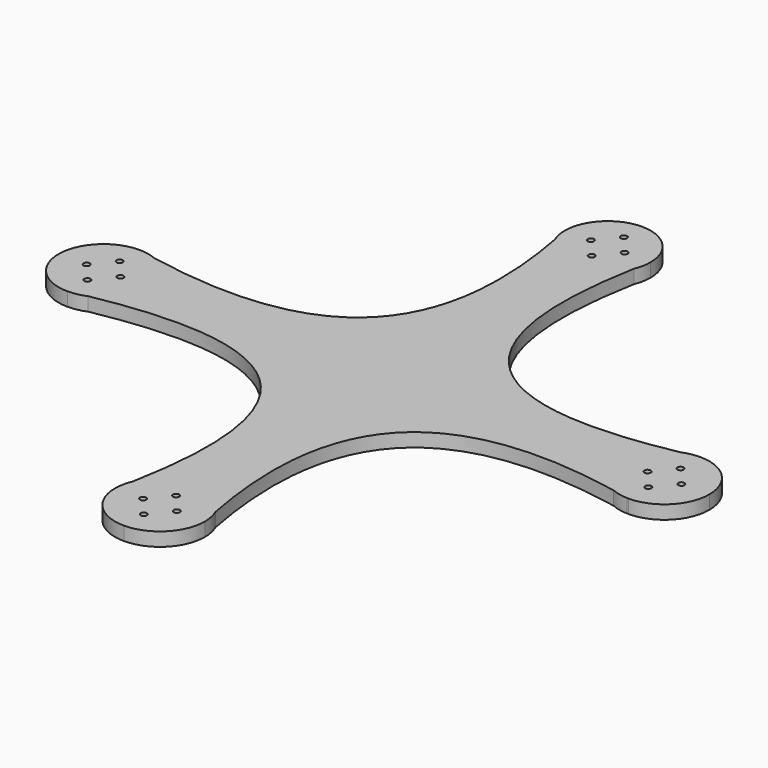
from build123d import *

# Parameters (mm, degrees)
F1_DEPTH = 6.35


with BuildPart() as f1:
    # F0 (on Top) → F1 (new body)
    with BuildSketch(Plane.XY):
        with BuildLine():
            ThreePointArc((120.79341101, 0), (122.24121101, 1.4478), (123.68901101, 0))
            Line((123.68901101, 0), (130.11521101, 0))
            Line((130.11521101, 0), (130.11521101, 7.9502))
            ThreePointArc((130.11521101, 7.9502), (128.66741101, 9.398), (130.11521101, 10.8458))
            Line((130.11521101, 10.8458), (130.11521101, 20.955))
            Line((130.11521101, 20.955), (129.4094382775, 20.9431112744))
            add(Edge.make_bspline(
                [(122.2815481936, 19.4356824393), (124.619083935, 19.9003764029), (126.9950360223, 20.4028595696), (129.4094382775, 20.9431112744)],
                knots=[150.2138018938, 150.2138018938, 150.2138018938, 150.2138018938, 154.1913454475, 154.1913454475, 154.1913454475, 154.1913454475], degree=3))
            ThreePointArc((122.2815481936, 19.4356824393), (112.7476200815, 11.7251358347), (109.16021101, 0))
            Line((109.16021101, 0), (120.79341101, 0))
        make_face()
        with BuildLine():
            Line((130.11521101, 0), (123.68901101, 0))
            ThreePointArc((123.68901101, 0), (122.24121101, -1.4478), (120.79341101, 0))
            Line((120.79341101, 0), (109.16021101, 0))
            ThreePointArc((109.16021101, 0), (112.5911882011, -11.4900239162), (121.7606070581, -19.2175081061))
            add(Edge.make_bspline(
                [(130.11521101, -20.955), (127.2773928384, -20.3243985565), (124.4925404628, -19.7452069036), (121.7606070581, -19.2175081061)],
                knots=[0, 0, 0, 0, 4.67403415, 4.67403415, 4.67403415, 4.67403415], degree=3))
            Line((130.11521101, -20.955), (130.11521101, -10.8458))
            ThreePointArc((130.11521101, -10.8458), (128.66741101, -9.398), (130.11521101, -7.9502))
            Line((130.11521101, -7.9502), (130.11521101, 0))
        make_face()
        with BuildLine():
            Line((130.11521101, 7.9502), (130.11521101, 0))
            Line((130.11521101, 0), (136.54141101, 0))
            ThreePointArc((136.54141101, 0), (137.98921101, 1.4478), (139.43701101, 0))
            Line((139.43701101, 0), (151.07021101, 0))
            ThreePointArc((151.07021101, 0), (144.9326336097, 14.8174225998), (130.11521101, 20.955))
            Line((130.11521101, 20.955), (130.11521101, 10.8458))
            ThreePointArc((130.11521101, 10.8458), (131.1389602078, 10.4217491978), (131.56301101, 9.398))
            ThreePointArc((131.56301101, 9.398), (131.1389602078, 8.3742508022), (130.11521101, 7.9502))
        make_face()
        with BuildLine():
            Line((136.54141101, 0), (130.11521101, 0))
            Line((130.11521101, 0), (130.11521101, -7.9502))
            ThreePointArc((130.11521101, -7.9502), (131.1389602078, -8.3742508022), (131.56301101, -9.398))
            ThreePointArc((131.56301101, -9.398), (131.1389602078, -10.4217491978), (130.11521101, -10.8458))
            Line((130.11521101, -10.8458), (130.11521101, -20.955))
            ThreePointArc((130.11521101, -20.955), (144.9326336097, -14.8174225998), (151.07021101, 0))
            Line((151.07021101, 0), (139.43701101, 0))
            ThreePointArc((139.43701101, 0), (137.98921101, -1.4478), (136.54141101, 0))
        make_face()
        with BuildLine():
            ThreePointArc((121.7606070581, -19.2175081061), (112.5911882011, -11.4900239162), (109.16021101, 0))
            ThreePointArc((109.16021101, 0), (112.7476200815, 11.7251358347), (122.2815481936, 19.4356824393))
            add(Edge.make_bspline(
                [(18.4571573957, 121.8935747296), (2.4740359892, 36.2001880799), (36.5254994756, 2.3876786479), (122.2815481936, 19.4356824393)],
                knots=[4.2915758799, 4.2915758799, 4.2915758799, 4.2915758799, 150.2138018938, 150.2138018938, 150.2138018938, 150.2138018938], degree=3))
            ThreePointArc((18.4571573957, 121.8935747296), (11.0905351489, 112.9490771865), (0, 109.5918179271))
            ThreePointArc((0, 109.5918179271), (-11.0906209119, 112.9491343482), (-18.4572367199, 121.8937649891))
            add(Edge.make_bspline(
                [(-123.1824907543, 19.2572834524), (-36.3246371653, 2.6417946871), (-2.5353340794, 36.5209589531), (-18.4572367199, 121.8937649891)],
                knots=[4.5659910886, 4.5659910886, 4.5659910886, 4.5659910886, 151.3024434717, 151.3024434717, 151.3024434717, 151.3024434717], degree=3))
            ThreePointArc((-123.1824907543, 19.2572834524), (-113.9485302669, 11.5319370393), (-110.49, 0))
            ThreePointArc((-110.49, 0), (-113.94858346, -11.5320177445), (-123.1826684094, -19.2573596759))
            add(Edge.make_bspline(
                [(-19.2573596759, -123.1826684094), (-2.6698341407, -36.4641564975), (-36.4641564975, -2.6698341407), (-123.1826684094, -19.2573596759)],
                knots=[4.5841640255, 4.5841640255, 4.5841640255, 4.5841640255, 151.6722924811, 151.6722924811, 151.6722924811, 151.6722924811], degree=3))
            ThreePointArc((-19.2573596759, -123.1826684094), (-19.1477552143, -122.9317459069), (-19.0348814104, -122.6822769818))
            ThreePointArc((-19.0348814104, -122.6822769818), (-11.3024148781, -113.7993930985), (0, -110.49))
            ThreePointArc((0, -110.49), (11.531953589, -113.9485411748), (19.2572990832, -123.1825271848))
            add(Edge.make_bspline(
                [(121.7606070581, -19.2175081061), (36.373275849, -2.7241368086), (2.682076988, -36.5337366576), (19.2572990832, -123.1825271848)],
                knots=[4.67403415, 4.67403415, 4.67403415, 4.67403415, 150.7622591999, 150.7622591999, 150.7622591999, 150.7622591999], degree=3))
        make_face()
        with BuildLine():
            ThreePointArc((129.4094382775, 20.9431112744), (125.7794786271, 20.5015474953), (122.2815481936, 19.4356824393))
            add(Edge.make_bspline(
                [(122.2815481936, 19.4356824393), (124.619083935, 19.9003764029), (126.9950360223, 20.4028595696), (129.4094382775, 20.9431112744)],
                knots=[150.2138018938, 150.2138018938, 150.2138018938, 150.2138018938, 154.1913454475, 154.1913454475, 154.1913454475, 154.1913454475], degree=3))
        make_face()
        with BuildLine():
            add(Edge.make_bspline(
                [(130.11521101, -20.955), (127.2773928384, -20.3243985565), (124.4925404628, -19.7452069036), (121.7606070581, -19.2175081061)],
                knots=[0, 0, 0, 0, 4.67403415, 4.67403415, 4.67403415, 4.67403415], degree=3))
            ThreePointArc((121.7606070581, -19.2175081061), (125.5035916644, -20.4412571045), (129.4094382775, -20.9431112744))
            Line((129.4094382775, -20.9431112744), (130.11521101, -20.955))
        make_face()
        with BuildLine():
            ThreePointArc((130.11521101, 20.955), (129.762274581, 20.9520276078), (129.4094382775, 20.9431112744))
            Line((129.4094382775, 20.9431112744), (130.11521101, 20.955))
        make_face()
        with BuildLine():
            add(Edge.make_bspline(
                [(19.9971389232, 129.5889568502), (19.4405626846, 126.9789378392), (18.9272213482, 124.4138191177), (18.4571573957, 121.8935747296)],
                knots=[0, 0, 0, 0, 4.2915758799, 4.2915758799, 4.2915758799, 4.2915758799], degree=3))
            ThreePointArc((18.4571573957, 121.8935747296), (19.6083643591, 125.6649777127), (19.9971389232, 129.5889568502))
        make_face()
        with BuildLine():
            ThreePointArc((0, 109.5918179271), (11.0905351489, 112.9490771865), (18.4571573957, 121.8935747296))
            add(Edge.make_bspline(
                [(19.9971389232, 129.5889568502), (19.4405626846, 126.9789378392), (18.9272213482, 124.4138191177), (18.4571573957, 121.8935747296)],
                knots=[0, 0, 0, 0, 4.2915758799, 4.2915758799, 4.2915758799, 4.2915758799], degree=3))
            Line((19.9971389232, 129.5889568502), (9.3218, 129.5889568502))
            ThreePointArc((9.3218, 129.5889568502), (7.874, 128.1411568502), (6.4262, 129.5889568502))
            Line((6.4262, 129.5889568502), (0, 129.5889568502))
            Line((0, 129.5889568502), (0, 121.6387568502))
            ThreePointArc((0, 121.6387568502), (1.0237491978, 121.214706048), (1.4478, 120.1909568502))
            ThreePointArc((1.4478, 120.1909568502), (1.0237491978, 119.1672076524), (0, 118.7431568502))
            Line((0, 118.7431568502), (0, 109.5918179271))
        make_face()
        with BuildLine():
            Line((130.11521101, -20.955), (129.4094382775, -20.9431112744))
            ThreePointArc((129.4094382775, -20.9431112744), (129.762274581, -20.9520276078), (130.11521101, -20.955))
        make_face()
        with BuildLine():
            add(Edge.make_bspline(
                [(19.2572990832, -123.1825271848), (19.7743085213, -125.8852506988), (20.3402232894, -128.6393826482), (20.955, -131.445)],
                knots=[150.7622591999, 150.7622591999, 150.7622591999, 150.7622591999, 155.3190000217, 155.3190000217, 155.3190000217, 155.3190000217], degree=3))
            ThreePointArc((19.2572990832, -123.1825271848), (11.531953589, -113.9485411748), (0, -110.49))
            Line((0, -110.49), (0, -120.5992))
            ThreePointArc((0, -120.5992), (1.0237491978, -121.0232508022), (1.4478, -122.047))
            ThreePointArc((1.4478, -122.047), (1.0237491978, -123.0707491978), (0, -123.4948))
            Line((0, -123.4948), (0, -131.445))
            Line((0, -131.445), (6.4262, -131.445))
            ThreePointArc((6.4262, -131.445), (7.874, -129.9972), (9.3218, -131.445))
            Line((9.3218, -131.445), (20.955, -131.445))
        make_face()
        with BuildLine():
            ThreePointArc((20.9544356834, -131.2912138119), (20.5105729549, -127.1521661967), (19.2572990832, -123.1825271848))
            add(Edge.make_bspline(
                [(19.2572990832, -123.1825271848), (19.7743085213, -125.8852506988), (20.3402232894, -128.6393826482), (20.955, -131.445)],
                knots=[150.7622591999, 150.7622591999, 150.7622591999, 150.7622591999, 155.3190000217, 155.3190000217, 155.3190000217, 155.3190000217], degree=3))
            Line((20.955, -131.445), (20.9544356834, -131.2912138119))
        make_face()
        with BuildLine():
            ThreePointArc((-18.4572367199, 121.8937649891), (-11.0906209119, 112.9491343482), (0, 109.5918179271))
            Line((0, 109.5918179271), (0, 118.7431568502))
            ThreePointArc((0, 118.7431568502), (-1.4478, 120.1909568502), (0, 121.6387568502))
            Line((0, 121.6387568502), (0, 129.5889568502))
            Line((0, 129.5889568502), (-6.4262, 129.5889568502))
            ThreePointArc((-6.4262, 129.5889568502), (-7.874, 128.1411568502), (-9.3218, 129.5889568502))
            Line((-9.3218, 129.5889568502), (-19.9971389232, 129.5889568502))
            add(Edge.make_bspline(
                [(-18.4572367199, 121.8937649891), (-18.927247149, 124.4139480419), (-19.4405766715, 126.9790034296), (-19.9971389232, 129.5889568502)],
                knots=[151.3024434717, 151.3024434717, 151.3024434717, 151.3024434717, 155.6340654212, 155.6340654212, 155.6340654212, 155.6340654212], degree=3))
        make_face()
        with BuildLine():
            Line((9.3218, 129.5889568502), (19.9971389232, 129.5889568502))
            ThreePointArc((19.9971389232, 129.5889568502), (14.1401125369, 143.7290693871), (0, 149.5860957734))
            Line((0, 149.5860957734), (0, 140.4347568502))
            ThreePointArc((0, 140.4347568502), (1.0237491978, 140.010706048), (1.4478, 138.9869568502))
            ThreePointArc((1.4478, 138.9869568502), (1.0237491978, 137.9632076524), (0, 137.5391568502))
            Line((0, 137.5391568502), (0, 129.5889568502))
            Line((0, 129.5889568502), (6.4262, 129.5889568502))
            ThreePointArc((6.4262, 129.5889568502), (7.874, 131.0367568502), (9.3218, 129.5889568502))
        make_face()
        with BuildLine():
            ThreePointArc((20.955, -131.445), (20.9548589204, -131.3681063883), (20.9544356834, -131.2912138119))
            Line((20.9544356834, -131.2912138119), (20.955, -131.445))
        make_face()
        with BuildLine():
            Line((0, -120.5992), (0, -110.49))
            ThreePointArc((0, -110.49), (-11.3024148781, -113.7993930985), (-19.0348814104, -122.6822769818))
            Line((-19.0348814104, -122.6822769818), (-20.955, -131.445))
            Line((-20.955, -131.445), (-9.3218, -131.445))
            ThreePointArc((-9.3218, -131.445), (-7.874, -129.9972), (-6.4262, -131.445))
            Line((-6.4262, -131.445), (0, -131.445))
            Line((0, -131.445), (0, -123.4948))
            ThreePointArc((0, -123.4948), (-1.4478, -122.047), (0, -120.5992))
        make_face()
        with BuildLine():
            ThreePointArc((0, -152.4), (14.8174225998, -146.2624225998), (20.955, -131.445))
            Line((20.955, -131.445), (9.3218, -131.445))
            ThreePointArc((9.3218, -131.445), (7.874, -132.8928), (6.4262, -131.445))
            Line((6.4262, -131.445), (0, -131.445))
            Line((0, -131.445), (0, -139.3952))
            ThreePointArc((0, -139.3952), (1.0237491978, -139.8192508022), (1.4478, -140.843))
            ThreePointArc((1.4478, -140.843), (1.0237491978, -141.8667491978), (0, -142.2908))
            Line((0, -142.2908), (0, -152.4))
        make_face()
        with BuildLine():
            ThreePointArc((-19.9971389232, 129.5889568502), (-19.6083845833, 125.6650787757), (-18.4572367199, 121.8937649891))
            add(Edge.make_bspline(
                [(-18.4572367199, 121.8937649891), (-18.927247149, 124.4139480419), (-19.4405766715, 126.9790034296), (-19.9971389232, 129.5889568502)],
                knots=[151.3024434717, 151.3024434717, 151.3024434717, 151.3024434717, 155.6340654212, 155.6340654212, 155.6340654212, 155.6340654212], degree=3))
        make_face()
        with BuildLine():
            Line((0, 140.4347568502), (0, 149.5860957734))
            ThreePointArc((0, 149.5860957734), (-14.1401125369, 143.7290693871), (-19.9971389232, 129.5889568502))
            Line((-19.9971389232, 129.5889568502), (-9.3218, 129.5889568502))
            ThreePointArc((-9.3218, 129.5889568502), (-7.874, 131.0367568502), (-6.4262, 129.5889568502))
            Line((-6.4262, 129.5889568502), (0, 129.5889568502))
            Line((0, 129.5889568502), (0, 137.5391568502))
            ThreePointArc((0, 137.5391568502), (-1.4478, 138.9869568502), (0, 140.4347568502))
        make_face()
        with BuildLine():
            Line((-20.955, -131.445), (-19.0348814104, -122.6822769818))
            ThreePointArc((-19.0348814104, -122.6822769818), (-19.1477552143, -122.9317459069), (-19.2573596759, -123.1826684094))
            add(Edge.make_bspline(
                [(-20.955, -131.445), (-20.3402339974, -128.6394315152), (-19.774328235, -125.8853466393), (-19.2573596759, -123.1826684094)],
                knots=[0, 0, 0, 0, 4.5841640255, 4.5841640255, 4.5841640255, 4.5841640255], degree=3))
        make_face()
        with BuildLine():
            ThreePointArc((-20.955, -131.445), (-14.8174225998, -146.2624225998), (0, -152.4))
            Line((0, -152.4), (0, -142.2908))
            ThreePointArc((0, -142.2908), (-1.4478, -140.843), (0, -139.3952))
            Line((0, -139.3952), (0, -131.445))
            Line((0, -131.445), (-6.4262, -131.445))
            ThreePointArc((-6.4262, -131.445), (-7.874, -132.8928), (-9.3218, -131.445))
            Line((-9.3218, -131.445), (-20.955, -131.445))
        make_face()
        with BuildLine():
            add(Edge.make_bspline(
                [(-131.445, 20.955), (-128.6393784119, 20.3402223612), (-125.8852423816, 19.7743068123), (-123.1824907543, 19.2572834524)],
                knots=[0, 0, 0, 0, 4.5659910886, 4.5659910886, 4.5659910886, 4.5659910886], degree=3))
            ThreePointArc((-123.1824907543, 19.2572834524), (-127.2274384856, 20.5261832758), (-131.445, 20.955))
        make_face()
        with BuildLine():
            ThreePointArc((-110.49, 0), (-113.9485302669, 11.5319370393), (-123.1824907543, 19.2572834524))
            add(Edge.make_bspline(
                [(-131.445, 20.955), (-128.6393784119, 20.3402223612), (-125.8852423816, 19.7743068123), (-123.1824907543, 19.2572834524)],
                knots=[0, 0, 0, 0, 4.5659910886, 4.5659910886, 4.5659910886, 4.5659910886], degree=3))
            Line((-131.445, 20.955), (-131.445, 10.8458))
            ThreePointArc((-131.445, 10.8458), (-130.4212508022, 10.4217491978), (-129.9972, 9.398))
            ThreePointArc((-129.9972, 9.398), (-130.4212508022, 8.3742508022), (-131.445, 7.9502))
            Line((-131.445, 7.9502), (-131.445, 0))
            Line((-131.445, 0), (-125.0188, 0))
            ThreePointArc((-125.0188, 0), (-123.571, 1.4478), (-122.1232, 0))
            Line((-122.1232, 0), (-110.49, 0))
        make_face()
        with BuildLine():
            add(Edge.make_bspline(
                [(-20.955, -131.445), (-20.3402339974, -128.6394315152), (-19.774328235, -125.8853466393), (-19.2573596759, -123.1826684094)],
                knots=[0, 0, 0, 0, 4.5841640255, 4.5841640255, 4.5841640255, 4.5841640255], degree=3))
            ThreePointArc((-19.2573596759, -123.1826684094), (-20.5262027298, -127.227533166), (-20.955, -131.445))
        make_face()
        with BuildLine():
            ThreePointArc((-123.1826684094, -19.2573596759), (-113.94858346, -11.5320177445), (-110.49, 0))
            Line((-110.49, 0), (-122.1232, 0))
            ThreePointArc((-122.1232, 0), (-123.571, -1.4478), (-125.0188, 0))
            Line((-125.0188, 0), (-131.445, 0))
            Line((-131.445, 0), (-131.445, -7.9502))
            ThreePointArc((-131.445, -7.9502), (-130.4212508022, -8.3742508022), (-129.9972, -9.398))
            ThreePointArc((-129.9972, -9.398), (-130.4212508022, -10.4217491978), (-131.445, -10.8458))
            Line((-131.445, -10.8458), (-131.445, -20.955))
            add(Edge.make_bspline(
                [(-123.1826684094, -19.2573596759), (-125.8853466393, -19.774328235), (-128.6394315152, -20.3402339974), (-131.445, -20.955)],
                knots=[151.6722924811, 151.6722924811, 151.6722924811, 151.6722924811, 156.2564565066, 156.2564565066, 156.2564565066, 156.2564565066], degree=3))
        make_face()
        with BuildLine():
            Line((-131.445, 10.8458), (-131.445, 20.955))
            ThreePointArc((-131.445, 20.955), (-146.2624225998, 14.8174225998), (-152.4, 0))
            Line((-152.4, 0), (-140.7668, 0))
            ThreePointArc((-140.7668, 0), (-139.319, 1.4478), (-137.8712, 0))
            Line((-137.8712, 0), (-131.445, 0))
            Line((-131.445, 0), (-131.445, 7.9502))
            ThreePointArc((-131.445, 7.9502), (-132.8928, 9.398), (-131.445, 10.8458))
        make_face()
        with BuildLine():
            ThreePointArc((-131.445, -20.955), (-127.227533166, -20.5262027298), (-123.1826684094, -19.2573596759))
            add(Edge.make_bspline(
                [(-123.1826684094, -19.2573596759), (-125.8853466393, -19.774328235), (-128.6394315152, -20.3402339974), (-131.445, -20.955)],
                knots=[151.6722924811, 151.6722924811, 151.6722924811, 151.6722924811, 156.2564565066, 156.2564565066, 156.2564565066, 156.2564565066], degree=3))
        make_face()
        with BuildLine():
            Line((-140.7668, 0), (-152.4, 0))
            ThreePointArc((-152.4, 0), (-146.2624225998, -14.8174225998), (-131.445, -20.955))
            Line((-131.445, -20.955), (-131.445, -10.8458))
            ThreePointArc((-131.445, -10.8458), (-132.8928, -9.398), (-131.445, -7.9502))
            Line((-131.445, -7.9502), (-131.445, 0))
            Line((-131.445, 0), (-137.8712, 0))
            ThreePointArc((-137.8712, 0), (-139.319, -1.4478), (-140.7668, 0))
        make_face()
    extrude(amount=F1_DEPTH)


solid = f1.part
